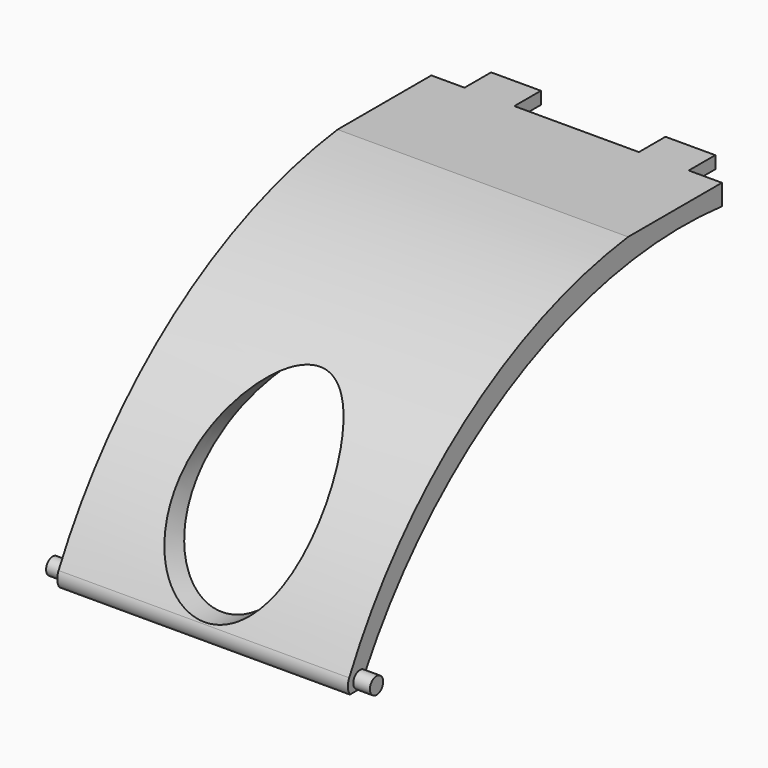
from build123d import *

# Parameters (mm, degrees)
F0_W          = 35
F0_H          = 57
F1_DEPTH      = 31.5
F4_DEPTH      = 57.001
F5_DEPTH      = 35.0010001
F7_DEPTH      = 35.0010001
F9_DEPTH      = 2
F9_DEPTH_BACK = 37
F11_DEPTH     = 37.001
F12_W         = 6
F12_H         = 2.5
F13_DEPTH     = 4
F14_DEPTH     = 1


with BuildPart() as f1:
    # F0 (on Top) → F1 (new body)
    with BuildSketch(Plane.XY):
        with Locations((0.0945744105, -24.8016776452)):
            Rectangle(F0_W, F0_H)
    extrude(amount=F1_DEPTH)

    # F3 (on face) → F4 (cut, through all)
    with BuildSketch(Plane.XZ.offset(53.3016776452)):
        with BuildLine():
            add(Edge.make_bspline(
                [(0.0945744105, 2), (14.3839935729, 2), (7.2392839917, 17), (0.0945744105, 32), (-7.0501351708, 17), (-14.194844752, 2), (0.0945744105, 2)],
                knots=[0, 0, 0, 2.0943951024, 2.0943951024, 4.1887902048, 4.1887902048, 6.2831853072, 6.2831853072, 6.2831853072], degree=2, weights=[1, 0.5, 1, 0.5, 1, 0.5, 1]))
        make_face()
    extrude(amount=-F4_DEPTH, mode=Mode.SUBTRACT)

    # F2 (on face) → F5 (cut, through all)
    with BuildSketch(Plane.YZ.offset(17.5945744105)):
        with BuildLine():
            ThreePointArc((-53.3016776452, 0), (-35.9248296563, 21.279893434), (-10.4231016291, 31.5))
            Line((-10.4231016291, 31.5), (-53.3016776452, 31.5))
            Line((-53.3016776452, 31.5), (-53.3016776452, 0))
        make_face()
    extrude(amount=-F5_DEPTH, mode=Mode.SUBTRACT)

    # F6 (on face) → F7 (cut, through all)
    with BuildSketch(Plane.YZ.offset(17.5945744105)):
        with BuildLine():
            Line((3.6983223548, 0), (3.6983223548, 29))
            ThreePointArc((3.6983223548, 29), (-28.0042777095, 22.8678173622), (-50.8016776452, 0))
            Line((-50.8016776452, 0), (3.6983223548, 0))
        make_face()
    extrude(amount=-F7_DEPTH, mode=Mode.SUBTRACT)

    # F8 (on face) → F9 (join, two sides)
    with BuildSketch(Plane.YZ.offset(17.5945744105)) as f9_sk:
        with BuildLine():
            ThreePointArc((-49.9582016017, 1.5371667936), (-51.6783665277, 1.4810577961), (-50.8016776452, 0))
            ThreePointArc((-50.8016776452, 0), (-50.3860655446, 0.7719448198), (-49.9582016017, 1.5371667936))
        make_face()
        with BuildLine():
            ThreePointArc((-49.9582016017, 1.5371667936), (-50.3860655446, 0.7719448198), (-50.8016776452, 0))
            ThreePointArc((-50.8016776452, 0), (-50.094570864, 0.2928932188), (-49.8016776452, 1))
            ThreePointArc((-49.8016776452, 1), (-49.8416057615, 1.2797534241), (-49.9582016017, 1.5371667936))
        make_face()
    extrude(amount=F9_DEPTH)
    extrude(f9_sk.sketch, amount=-F9_DEPTH_BACK)

    # F10 (on face) → F11 (cut, through all)
    with BuildSketch(Plane.YZ.offset(17.5945744105)):
        with BuildLine():
            Line((-53.3016776452, 0), (-52.3163572735, 0))
            ThreePointArc((-52.3163572735, 0), (-52.6137174082, 0.8962393447), (-52.4206060402, 1.8205639696))
            ThreePointArc((-52.4206060402, 1.8205639696), (-52.8695111773, 0.9143323688), (-53.3016776452, 0))
        make_face()
    extrude(amount=-F11_DEPTH, mode=Mode.SUBTRACT)

    # F12 (on face) → F13 (join)
    with BuildSketch(Plane(origin=(0, 3.6983223548, 0), x_dir=(-1, 0, 0), z_dir=(0, 1, 0))):
        with Locations((-10.5945744105, 30.25)):
            Rectangle(F12_W, F12_H)
        with Locations((10.4054255895, 30.25)):
            Rectangle(F12_W, F12_H)
    extrude(amount=F13_DEPTH)

    # F14 (cut): faces of the model
    f14_faces = [f1.faces().sort_by_distance(p)[0] for p in [
        (10.5945744105, 5.6983223548, 29),
        (-10.4054255895, 5.6983223548, 29),
    ]]
    extrude(f14_faces, amount=-F14_DEPTH, mode=Mode.SUBTRACT)


solid = f1.part
